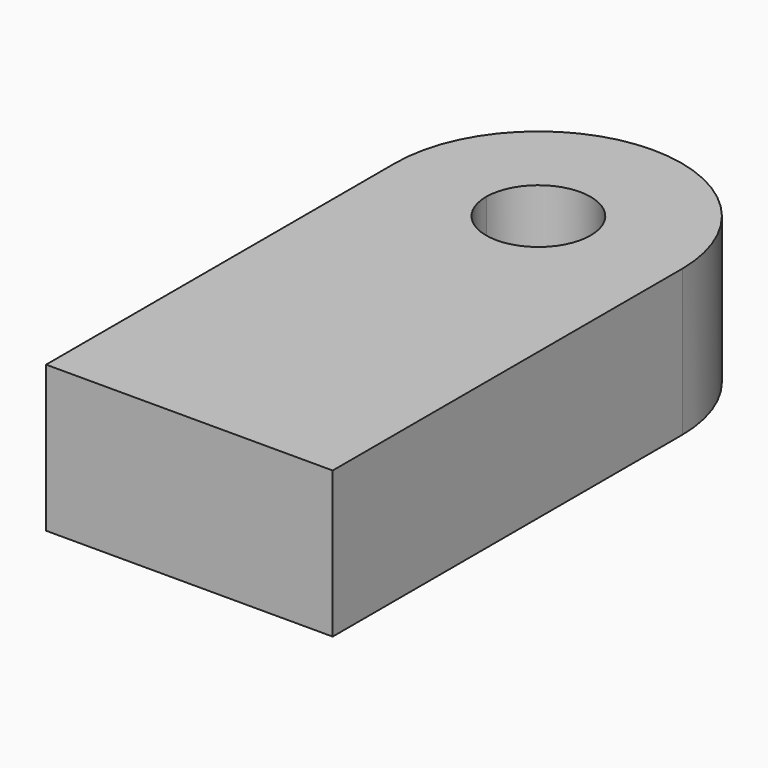
from build123d import *

# Parameters (mm, degrees)
F1_DEPTH = 25.4


with BuildPart() as f1:
    # F0 (on Top) → F1 (new body)
    with BuildSketch(Plane.XY):
        with BuildLine():
            Line((-11.935557, 32.965893), (-27.745403, 32.907337))
            Line((-27.745403, 32.907337), (-27.745403, -42.862501))
            Line((-27.745403, -42.862501), (22.030406, -42.862501))
            Line((22.030406, -42.862501), (22.030406, 33.091694))
            Line((22.030406, 33.091694), (6.220559, 33.033138))
            ThreePointArc((6.220559, 33.033138), (6.221213, 32.970239), (6.221431, 32.907337))
            ThreePointArc((6.221431, 32.907337), (-2.886435, 23.828796), (-11.935557, 32.965893))
        make_face()
        with BuildLine():
            ThreePointArc((22.030406, 33.091694), (-2.949337, 57.795412), (-27.745403, 32.907337))
            Line((-27.745403, 32.907337), (-11.935557, 32.965893))
            ThreePointArc((-11.935557, 32.965893), (-2.890782, 41.985863), (6.220559, 33.033138))
            Line((6.220559, 33.033138), (22.030406, 33.091694))
        make_face()
    extrude(amount=F1_DEPTH)


solid = f1.part
